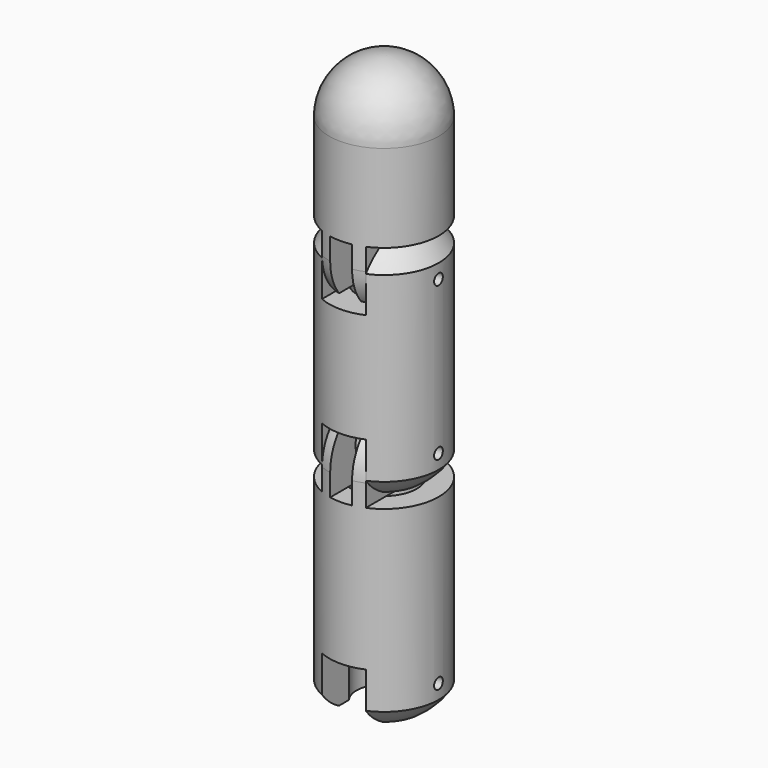
from build123d import *

# Parameters (mm, degrees)
CYLINDER120_R                = 3
CYLINDER120_DEPTH            = 10
CYLINDER115_R                = 5
CYLINDER115_DEPTH            = 4
CYLINDER121_R                = 0.5
CYLINDER121_DEPTH            = 10
CYLINDER119_R                = 2.5
CYLINDER119_DEPTH            = 10
BOX042_W                     = 4
BOX042_H                     = 10
BOX042_DEPTH                 = 5
CYLINDER118_R                = 5
CYLINDER118_DEPTH            = 10
CYLINDER122_R                = 0.5
CYLINDER122_DEPTH            = 10
CYLINDER124_R                = 2
CYLINDER124_DEPTH            = 4
CYLINDER113_R                = 3
CYLINDER113_DEPTH            = 10
BOX043_W                     = 10
BOX043_H                     = 10
BOX043_DEPTH                 = 10
BOX040_W                     = 2
BOX040_H                     = 10
BOX040_DEPTH                 = 10
BOX041_W                     = 10
BOX041_H                     = 10
BOX041_DEPTH                 = 10
CYLINDER126_R                = 5
CYLINDER126_DEPTH            = 10
CYLINDER116_R                = 5
CYLINDER116_DEPTH            = 10
CYLINDER129_R                = 0.5
CYLINDER129_DEPTH            = 10
CYLINDER123_R                = 2
CYLINDER123_DEPTH            = 4
CYLINDER130_R                = 3
CYLINDER130_DEPTH            = 10
BOX045_W                     = 10
BOX045_H                     = 10
BOX045_DEPTH                 = 10
BOX046_W                     = 2
BOX046_H                     = 10
BOX046_DEPTH                 = 10
BOX044_W                     = 10
BOX044_H                     = 10
BOX044_DEPTH                 = 10
CYLINDER128_R                = 5
CYLINDER128_DEPTH            = 10
CYLINDER127_R                = 5
CYLINDER127_DEPTH            = 10
CUT111_PLACEMENT_ANGLE       = 180
CYLINDER134_R                = 3
CYLINDER134_DEPTH            = 10
CYLINDER114_R                = 5
CYLINDER114_DEPTH            = 4
CYLINDER132_R                = 0.5
CYLINDER132_DEPTH            = 10
CYLINDER125_R                = 2.5
CYLINDER125_DEPTH            = 10
BOX047_W                     = 4
BOX047_H                     = 10
BOX047_DEPTH                 = 5
CYLINDER133_R                = 5
CYLINDER133_DEPTH            = 10
FUSION005057_PLACEMENT_ANGLE = 180
CYLINDER136_R                = 3
CYLINDER136_DEPTH            = 10
CYLINDER135_R                = 5
CYLINDER135_DEPTH            = 4
CYLINDER131_R                = 0.5
CYLINDER131_DEPTH            = 10
CYLINDER137_R                = 2.5
CYLINDER137_DEPTH            = 10
BOX048_W                     = 4
BOX048_H                     = 10
BOX048_DEPTH                 = 5
CYLINDER117_R                = 5
CYLINDER117_DEPTH            = 10


with BuildPart() as cylinder120:
    # Cylinder120 → Cylinder120 (new body)
    with BuildSketch(Plane(origin=(18, 0, -6), x_dir=(1, 0, 0), z_dir=(0, 0, 1))):
        Circle(CYLINDER120_R)
    extrude(amount=CYLINDER120_DEPTH)


with BuildPart() as cut106:
    # Cylinder115 → Cylinder115 (new body)
    with BuildSketch(Plane(origin=(18, 0, -4), x_dir=(1, 0, 0), z_dir=(0, 0, 1))):
        Circle(CYLINDER115_R)
    extrude(amount=CYLINDER115_DEPTH)

    # Cut106: cut Cylinder120
    add(cylinder120.part, mode=Mode.SUBTRACT)


with BuildPart() as cut106_1:
    # Cut106 placement: moved
    add(cut106.part.moved(Location((-18, 0, 0))))


with BuildPart() as sphere029:
    # Sphere029 → Sphere029 (revolve)
    with BuildSketch(Plane(origin=(0, 0, -5), x_dir=(1, 0, 0), z_dir=(0, -1, 0))):
        with BuildLine():
            ThreePointArc((0, -6), (6, 0), (0, 6))
            Line((0, 6), (0, -6))
        make_face()
    revolve(axis=Axis((0, 0, -5), (0, 0, 1)))


with BuildPart() as cylinder121:
    # Cylinder121 → Cylinder121 (new body)
    with BuildSketch(Plane(origin=(5, 0, -7), x_dir=(0, 0, 1), z_dir=(-1, 0, 0))):
        Circle(CYLINDER121_R)
    extrude(amount=CYLINDER121_DEPTH)


with BuildPart() as cylinder119:
    # Cylinder119 → Cylinder119 (new body)
    with BuildSketch(Plane.XY.offset(-10)):
        Circle(CYLINDER119_R)
    extrude(amount=CYLINDER119_DEPTH)


with BuildPart() as cube042:
    # Box042 → Box042 (new body)
    with BuildSketch(Plane(origin=(-2, -5, -10), x_dir=(1, 0, 0), z_dir=(0, 0, 1))):
        with Locations((2, 5)):
            Rectangle(BOX042_W, BOX042_H)
    extrude(amount=BOX042_DEPTH)


with BuildPart() as fusion005050:
    # Cylinder118 → Cylinder118 (new body)
    with BuildSketch(Plane.XY.offset(-10)):
        Circle(CYLINDER118_R)
    extrude(amount=CYLINDER118_DEPTH)

    # Cut105: cut Cube042
    add(cube042.part, mode=Mode.SUBTRACT)

    # Cut104: cut Cylinder119
    add(cylinder119.part, mode=Mode.SUBTRACT)

    # Cut098: cut Cylinder121
    add(cylinder121.part, mode=Mode.SUBTRACT)

    # Common024: intersect Sphere029
    add(sphere029.part, mode=Mode.INTERSECT)

    # Fusion005052: union Cut106
    add(cut106_1.part)


with BuildPart() as fusion005050_1:
    # Fusion005050 placement: moved
    add(fusion005050.part.moved(Location((0, 0, -18.5))))


with BuildPart() as cylinder122:
    # Cylinder122 → Cylinder122 (new body)
    with BuildSketch(Plane(origin=(-5, 0, -7), x_dir=(0, 0, -1), z_dir=(1, 0, 0))):
        Circle(CYLINDER122_R)
    extrude(amount=CYLINDER122_DEPTH)


with BuildPart() as cylinder124:
    # Cylinder124 → Cylinder124 (new body)
    with BuildSketch(Plane(origin=(-2, -50, 1), x_dir=(0, 0, -1), z_dir=(1, 0, 0))):
        Circle(CYLINDER124_R)
    extrude(amount=CYLINDER124_DEPTH)


with BuildPart() as cylinder113:
    # Cylinder113 → Cylinder113 (new body)
    with BuildSketch(Plane(origin=(0, -50, -12), x_dir=(1, 0, 0), z_dir=(0, 0, 1))):
        Circle(CYLINDER113_R)
    extrude(amount=CYLINDER113_DEPTH)


with BuildPart() as cube043:
    # Box043 → Box043 (new body)
    with BuildSketch(Plane(origin=(-12, -55, -2), x_dir=(1, 0, 0), z_dir=(0, 0, 1))):
        with Locations((5, 5)):
            Rectangle(BOX043_W, BOX043_H)
    extrude(amount=BOX043_DEPTH)


with BuildPart() as cube040:
    # Box040 → Box040 (new body)
    with BuildSketch(Plane(origin=(-1, -55, -2), x_dir=(1, 0, 0), z_dir=(0, 0, 1))):
        with Locations((1, 5)):
            Rectangle(BOX040_W, BOX040_H)
    extrude(amount=BOX040_DEPTH)


with BuildPart() as cube041:
    # Box041 → Box041 (new body)
    with BuildSketch(Plane(origin=(2, -55, -2), x_dir=(1, 0, 0), z_dir=(0, 0, 1))):
        with Locations((5, 5)):
            Rectangle(BOX041_W, BOX041_H)
    extrude(amount=BOX041_DEPTH)


with BuildPart() as cylinder126:
    # Cylinder126 → Cylinder126 (new body)
    with BuildSketch(Plane(origin=(0, -50, -10), x_dir=(1, 0, 0), z_dir=(0, 0, 1))):
        Circle(CYLINDER126_R)
    extrude(amount=CYLINDER126_DEPTH)


with BuildPart() as sphere030:
    # Sphere030 → Sphere030 (revolve)
    with BuildSketch(Plane.XZ.offset(50)):
        with BuildLine():
            ThreePointArc((5, 0), (3.535534, 3.535534), (0, 5))
            Line((0, 5), (0, 0))
            Line((0, 0), (5, 0))
        make_face()
    revolve(axis=Axis((0, -50, 0), (0, 0, 1)))


with BuildPart() as cut102:
    # Cylinder116 → Cylinder116 (new body)
    with BuildSketch(Plane(origin=(0, -50, -7), x_dir=(1, 0, 0), z_dir=(0, 0, 1))):
        Circle(CYLINDER116_R)
    extrude(amount=CYLINDER116_DEPTH)

    # Common022: intersect Sphere030
    add(sphere030.part, mode=Mode.INTERSECT)

    # Fusion005053: union Cylinder126
    add(cylinder126.part)

    # Cut103: cut Cube041
    add(cube041.part, mode=Mode.SUBTRACT)

    # Cut101: cut Cube040
    add(cube040.part, mode=Mode.SUBTRACT)

    # Cut100: cut Cube043
    add(cube043.part, mode=Mode.SUBTRACT)

    # Cut108: cut Cylinder113
    add(cylinder113.part, mode=Mode.SUBTRACT)

    # Fusion005049: union Cylinder124
    add(cylinder124.part)


with BuildPart() as cut102_1:
    # Fusion005051 placement: moved
    add(cut102.part.moved(Location((0, 50, -8.5))))

    # Cut102: cut Cylinder122
    add(cylinder122.part, mode=Mode.SUBTRACT)


with BuildPart() as cut102_2:
    # Cut102 placement: moved
    add(cut102_1.part.moved(Location((0, 0, -18.5))))


with BuildPart() as cylinder129:
    # Cylinder129 → Cylinder129 (new body)
    with BuildSketch(Plane(origin=(-5, 0, -7), x_dir=(0, 0, -1), z_dir=(1, 0, 0))):
        Circle(CYLINDER129_R)
    extrude(amount=CYLINDER129_DEPTH)


with BuildPart() as cylinder123:
    # Cylinder123 → Cylinder123 (new body)
    with BuildSketch(Plane(origin=(-2, -50, 1), x_dir=(0, 0, -1), z_dir=(1, 0, 0))):
        Circle(CYLINDER123_R)
    extrude(amount=CYLINDER123_DEPTH)


with BuildPart() as cylinder130:
    # Cylinder130 → Cylinder130 (new body)
    with BuildSketch(Plane(origin=(0, -50, -12), x_dir=(1, 0, 0), z_dir=(0, 0, 1))):
        Circle(CYLINDER130_R)
    extrude(amount=CYLINDER130_DEPTH)


with BuildPart() as cube045:
    # Box045 → Box045 (new body)
    with BuildSketch(Plane(origin=(-12, -55, -2), x_dir=(1, 0, 0), z_dir=(0, 0, 1))):
        with Locations((5, 5)):
            Rectangle(BOX045_W, BOX045_H)
    extrude(amount=BOX045_DEPTH)


with BuildPart() as cube046:
    # Box046 → Box046 (new body)
    with BuildSketch(Plane(origin=(-1, -55, -2), x_dir=(1, 0, 0), z_dir=(0, 0, 1))):
        with Locations((1, 5)):
            Rectangle(BOX046_W, BOX046_H)
    extrude(amount=BOX046_DEPTH)


with BuildPart() as cube044:
    # Box044 → Box044 (new body)
    with BuildSketch(Plane(origin=(2, -55, -2), x_dir=(1, 0, 0), z_dir=(0, 0, 1))):
        with Locations((5, 5)):
            Rectangle(BOX044_W, BOX044_H)
    extrude(amount=BOX044_DEPTH)


with BuildPart() as cylinder128:
    # Cylinder128 → Cylinder128 (new body)
    with BuildSketch(Plane(origin=(0, -50, -10), x_dir=(1, 0, 0), z_dir=(0, 0, 1))):
        Circle(CYLINDER128_R)
    extrude(amount=CYLINDER128_DEPTH)


with BuildPart() as sphere027:
    # Sphere027 → Sphere027 (revolve)
    with BuildSketch(Plane.XZ.offset(50)):
        with BuildLine():
            ThreePointArc((5, 0), (3.535534, 3.535534), (0, 5))
            Line((0, 5), (0, 0))
            Line((0, 0), (5, 0))
        make_face()
    revolve(axis=Axis((0, -50, 0), (0, 0, 1)))


with BuildPart() as cut111:
    # Cylinder127 → Cylinder127 (new body)
    with BuildSketch(Plane(origin=(0, -50, -7), x_dir=(1, 0, 0), z_dir=(0, 0, 1))):
        Circle(CYLINDER127_R)
    extrude(amount=CYLINDER127_DEPTH)

    # Common025: intersect Sphere027
    add(sphere027.part, mode=Mode.INTERSECT)

    # Fusion005054: union Cylinder128
    add(cylinder128.part)

    # Cut110: cut Cube044
    add(cube044.part, mode=Mode.SUBTRACT)

    # Cut112: cut Cube046
    add(cube046.part, mode=Mode.SUBTRACT)

    # Cut113: cut Cube045
    add(cube045.part, mode=Mode.SUBTRACT)

    # Cut109: cut Cylinder130
    add(cylinder130.part, mode=Mode.SUBTRACT)

    # Fusion005055: union Cylinder123
    add(cylinder123.part)


with BuildPart() as cut111_1:
    # Fusion005048 placement: moved
    add(cut111.part.moved(Location((0, 50, -8.5))))

    # Cut111: cut Cylinder129
    add(cylinder129.part, mode=Mode.SUBTRACT)


with BuildPart() as cut111_2:
    # Cut111 placement: moved
    add(cut111_1.part.moved(Location((0, 0, -18.5))).rotate(Axis((0, 0, -18.5), (1, 0, 0)), CUT111_PLACEMENT_ANGLE))


with BuildPart() as cylinder134:
    # Cylinder134 → Cylinder134 (new body)
    with BuildSketch(Plane(origin=(18, 0, -6), x_dir=(1, 0, 0), z_dir=(0, 0, 1))):
        Circle(CYLINDER134_R)
    extrude(amount=CYLINDER134_DEPTH)


with BuildPart() as cut118:
    # Cylinder114 → Cylinder114 (new body)
    with BuildSketch(Plane(origin=(18, 0, -4), x_dir=(1, 0, 0), z_dir=(0, 0, 1))):
        Circle(CYLINDER114_R)
    extrude(amount=CYLINDER114_DEPTH)

    # Cut118: cut Cylinder134
    add(cylinder134.part, mode=Mode.SUBTRACT)


with BuildPart() as cut118_1:
    # Cut118 placement: moved
    add(cut118.part.moved(Location((-18, 0, 0))))


with BuildPart() as sphere028:
    # Sphere028 → Sphere028 (revolve)
    with BuildSketch(Plane(origin=(0, 0, -5), x_dir=(1, 0, 0), z_dir=(0, -1, 0))):
        with BuildLine():
            ThreePointArc((0, -6), (6, 0), (0, 6))
            Line((0, 6), (0, -6))
        make_face()
    revolve(axis=Axis((0, 0, -5), (0, 0, 1)))


with BuildPart() as cylinder132:
    # Cylinder132 → Cylinder132 (new body)
    with BuildSketch(Plane(origin=(5, 0, -7), x_dir=(0, 0, 1), z_dir=(-1, 0, 0))):
        Circle(CYLINDER132_R)
    extrude(amount=CYLINDER132_DEPTH)


with BuildPart() as cylinder125:
    # Cylinder125 → Cylinder125 (new body)
    with BuildSketch(Plane.XY.offset(-10)):
        Circle(CYLINDER125_R)
    extrude(amount=CYLINDER125_DEPTH)


with BuildPart() as cube047:
    # Box047 → Box047 (new body)
    with BuildSketch(Plane(origin=(-2, -5, -10), x_dir=(1, 0, 0), z_dir=(0, 0, 1))):
        with Locations((2, 5)):
            Rectangle(BOX047_W, BOX047_H)
    extrude(amount=BOX047_DEPTH)


with BuildPart() as fusion005057:
    # Cylinder133 → Cylinder133 (new body)
    with BuildSketch(Plane.XY.offset(-10)):
        Circle(CYLINDER133_R)
    extrude(amount=CYLINDER133_DEPTH)

    # Cut114: cut Cube047
    add(cube047.part, mode=Mode.SUBTRACT)

    # Cut117: cut Cylinder125
    add(cylinder125.part, mode=Mode.SUBTRACT)

    # Cut107: cut Cylinder132
    add(cylinder132.part, mode=Mode.SUBTRACT)

    # Common023: intersect Sphere028
    add(sphere028.part, mode=Mode.INTERSECT)

    # Fusion005056: union Cut118
    add(cut118_1.part)


with BuildPart() as fusion005057_1:
    # Fusion005057 placement: moved
    add(fusion005057.part.moved(Location((0, 0, -18.5))).rotate(Axis((0, 0, -18.5), (1, 0, 0)), FUSION005057_PLACEMENT_ANGLE))


with BuildPart() as cylinder136:
    # Cylinder136 → Cylinder136 (new body)
    with BuildSketch(Plane(origin=(18, 0, -6), x_dir=(1, 0, 0), z_dir=(0, 0, 1))):
        Circle(CYLINDER136_R)
    extrude(amount=CYLINDER136_DEPTH)


with BuildPart() as cut119:
    # Cylinder135 → Cylinder135 (new body)
    with BuildSketch(Plane(origin=(18, 0, -4), x_dir=(1, 0, 0), z_dir=(0, 0, 1))):
        Circle(CYLINDER135_R)
    extrude(amount=CYLINDER135_DEPTH)

    # Cut119: cut Cylinder136
    add(cylinder136.part, mode=Mode.SUBTRACT)


with BuildPart() as cut119_1:
    # Cut119 placement: moved
    add(cut119.part.moved(Location((-18, 0, 0))))


with BuildPart() as sphere032:
    # Sphere032 → Sphere032 (revolve)
    with BuildSketch(Plane(origin=(0, 0, -5), x_dir=(1, 0, 0), z_dir=(0, -1, 0))):
        with BuildLine():
            ThreePointArc((0, -6), (6, 0), (0, 6))
            Line((0, 6), (0, -6))
        make_face()
    revolve(axis=Axis((0, 0, -5), (0, 0, 1)))


with BuildPart() as cylinder131:
    # Cylinder131 → Cylinder131 (new body)
    with BuildSketch(Plane(origin=(5, 0, -7), x_dir=(0, 0, 1), z_dir=(-1, 0, 0))):
        Circle(CYLINDER131_R)
    extrude(amount=CYLINDER131_DEPTH)


with BuildPart() as cylinder137:
    # Cylinder137 → Cylinder137 (new body)
    with BuildSketch(Plane.XY.offset(-10)):
        Circle(CYLINDER137_R)
    extrude(amount=CYLINDER137_DEPTH)


with BuildPart() as cube048:
    # Box048 → Box048 (new body)
    with BuildSketch(Plane(origin=(-2, -5, -10), x_dir=(1, 0, 0), z_dir=(0, 0, 1))):
        with Locations((2, 5)):
            Rectangle(BOX048_W, BOX048_H)
    extrude(amount=BOX048_DEPTH)


with BuildPart() as fusion005059:
    # Cylinder117 → Cylinder117 (new body)
    with BuildSketch(Plane.XY.offset(-10)):
        Circle(CYLINDER117_R)
    extrude(amount=CYLINDER117_DEPTH)

    # Cut099: cut Cube048
    add(cube048.part, mode=Mode.SUBTRACT)

    # Cut115: cut Cylinder137
    add(cylinder137.part, mode=Mode.SUBTRACT)

    # Cut116: cut Cylinder131
    add(cylinder131.part, mode=Mode.SUBTRACT)

    # Common026: intersect Sphere032
    add(sphere032.part, mode=Mode.INTERSECT)

    # Fusion005058: union Cut119
    add(cut119_1.part)


with BuildPart() as fusion005059_1:
    # Fusion005059 placement: moved
    add(fusion005059.part.moved(Location((0, 0, -37))))


with BuildPart() as connect003001:
    # Sphere031 → Sphere031 (revolve)
    with BuildSketch(Plane.XZ):
        with BuildLine():
            ThreePointArc((5, 0), (3.535534, 3.535534), (0, 5))
            Line((0, 5), (0, 0))
            Line((0, 0), (5, 0))
        make_face()
    revolve(axis=Axis((0, 0, 0), (0, 0, 1)))

    # Connect003: union Fusion005050, Cut102, Cut111, Fusion005057, Fusion005059
    add(fusion005050_1.part)
    add(cut102_2.part)
    add(cut111_2.part)
    add(fusion005057_1.part)
    add(fusion005059_1.part)


with BuildPart() as connect003001_1:
    # Connect003 placement: moved
    add(connect003001.part.moved(Location((-64.5, 0, 0))))


solid = connect003001_1.part
